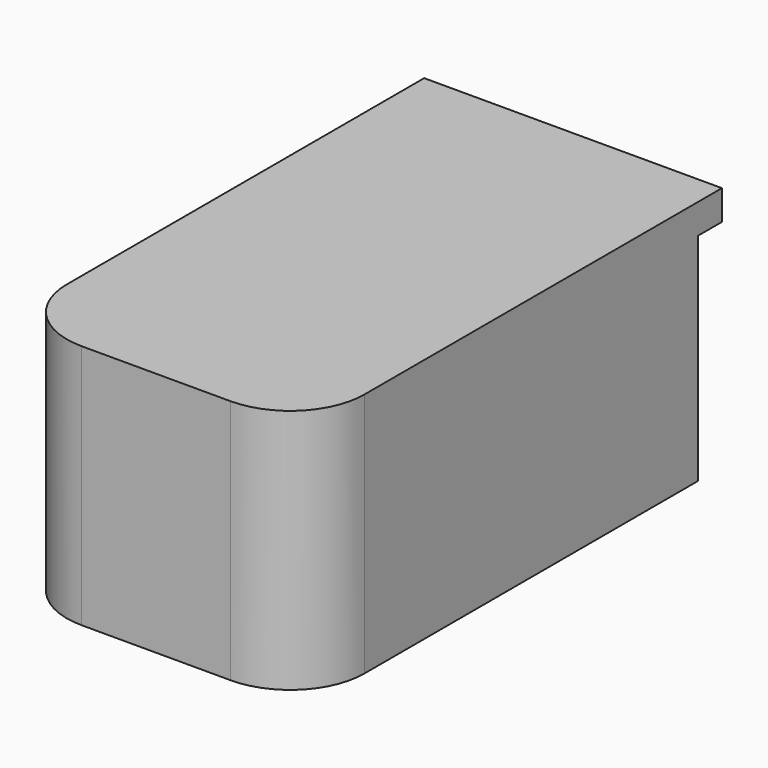
from build123d import *

# Parameters (mm, degrees)
F1_DEPTH = 4
F2_DEPTH = 29


with BuildPart() as f1:
    # F0 (on Top) → F1 (new body)
    with BuildSketch(Plane.XY):
        with BuildLine():
            Line((-9.838484, -35.096727), (10.161516, -35.096727))
            ThreePointArc((10.161516, -35.096727), (17.232584, -32.167795), (20.161516, -25.096727))
            Line((20.161516, -25.096727), (20.161516, 30.903273))
            Line((20.161516, 30.903273), (18.161516, 30.903273))
            Line((18.161516, 30.903273), (18.161516, -25.596727))
            ThreePointArc((18.161516, -25.596727), (15.81837, -31.253582), (10.161516, -33.596727))
            Line((10.161516, -33.596727), (-9.838484, -33.596727))
            ThreePointArc((-9.838484, -33.596727), (-15.495338, -31.253582), (-17.838484, -25.596727))
            Line((-17.838484, -25.596727), (-17.838484, 30.903273))
            Line((-17.838484, 30.903273), (-19.838484, 30.903273))
            Line((-19.838484, 30.903273), (-19.838484, -25.096727))
            ThreePointArc((-19.838484, -25.096727), (-16.909552, -32.167795), (-9.838484, -35.096727))
        make_face()
        Polygon((18.161516, 30.903273), (20.161516, 30.903273), (20.161516, 34.903273), (-19.838484, 34.903273), (-19.838484, 30.903273), (-17.838484, 30.903273), (-16.838484, 30.903273), (-14.838484, 30.903273), (15.161516, 30.903273), (17.161516, 30.903273), align=None)
        with BuildLine():
            Line((18.161516, -25.596727), (18.161516, 30.903273))
            Line((18.161516, 30.903273), (17.161516, 30.903273))
            Line((17.161516, 30.903273), (17.161516, -25.596727))
            ThreePointArc((17.161516, -25.596727), (15.111263, -30.546475), (10.161516, -32.596727))
            Line((10.161516, -32.596727), (-9.838484, -32.596727))
            ThreePointArc((-9.838484, -32.596727), (-14.788231, -30.546475), (-16.838484, -25.596727))
            Line((-16.838484, -25.596727), (-16.838484, 30.903273))
            Line((-16.838484, 30.903273), (-17.838484, 30.903273))
            Line((-17.838484, 30.903273), (-17.838484, -25.596727))
            ThreePointArc((-17.838484, -25.596727), (-15.495338, -31.253582), (-9.838484, -33.596727))
            Line((-9.838484, -33.596727), (10.161516, -33.596727))
            ThreePointArc((10.161516, -33.596727), (15.81837, -31.253582), (18.161516, -25.596727))
        make_face()
        with BuildLine():
            Line((15.161516, -25.596727), (15.161516, 30.903273))
            Line((15.161516, 30.903273), (-14.838484, 30.903273))
            Line((-14.838484, 30.903273), (-14.838484, -25.596727))
            ThreePointArc((-14.838484, -25.596727), (-13.374018, -29.132261), (-9.838484, -30.596727))
            Line((-9.838484, -30.596727), (10.161516, -30.596727))
            ThreePointArc((10.161516, -30.596727), (13.69705, -29.132261), (15.161516, -25.596727))
        make_face()
        with BuildLine():
            Line((17.161516, -25.596727), (17.161516, 30.903273))
            Line((17.161516, 30.903273), (15.161516, 30.903273))
            Line((15.161516, 30.903273), (15.161516, -25.596727))
            ThreePointArc((15.161516, -25.596727), (13.69705, -29.132261), (10.161516, -30.596727))
            Line((10.161516, -30.596727), (-9.838484, -30.596727))
            ThreePointArc((-9.838484, -30.596727), (-13.374018, -29.132261), (-14.838484, -25.596727))
            Line((-14.838484, -25.596727), (-14.838484, 30.903273))
            Line((-14.838484, 30.903273), (-16.838484, 30.903273))
            Line((-16.838484, 30.903273), (-16.838484, -25.596727))
            ThreePointArc((-16.838484, -25.596727), (-14.788231, -30.546475), (-9.838484, -32.596727))
            Line((-9.838484, -32.596727), (10.161516, -32.596727))
            ThreePointArc((10.161516, -32.596727), (15.111263, -30.546475), (17.161516, -25.596727))
        make_face()
    extrude(amount=F1_DEPTH)

    # F0 (on Top) → F2 (join)
    with BuildSketch(Plane.XY):
        with BuildLine():
            Line((-9.838484, -35.096727), (10.161516, -35.096727))
            ThreePointArc((10.161516, -35.096727), (17.232584, -32.167795), (20.161516, -25.096727))
            Line((20.161516, -25.096727), (20.161516, 30.903273))
            Line((20.161516, 30.903273), (18.161516, 30.903273))
            Line((18.161516, 30.903273), (18.161516, -25.596727))
            ThreePointArc((18.161516, -25.596727), (15.81837, -31.253582), (10.161516, -33.596727))
            Line((10.161516, -33.596727), (-9.838484, -33.596727))
            ThreePointArc((-9.838484, -33.596727), (-15.495338, -31.253582), (-17.838484, -25.596727))
            Line((-17.838484, -25.596727), (-17.838484, 30.903273))
            Line((-17.838484, 30.903273), (-19.838484, 30.903273))
            Line((-19.838484, 30.903273), (-19.838484, -25.096727))
            ThreePointArc((-19.838484, -25.096727), (-16.909552, -32.167795), (-9.838484, -35.096727))
        make_face()
    extrude(amount=-F2_DEPTH)


solid = f1.part
